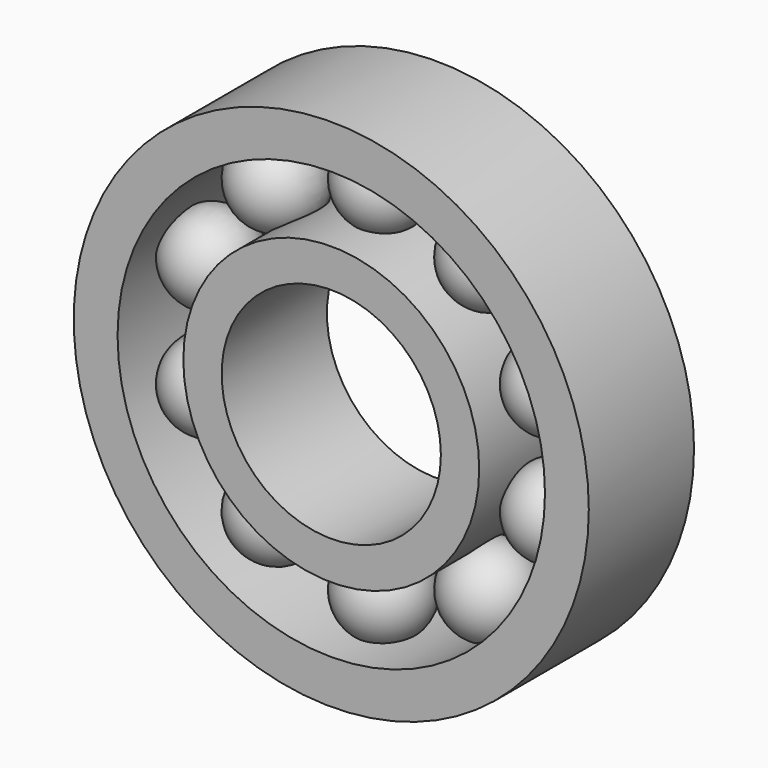
from build123d import *

# Parameters (mm, degrees)
F0_R     = 13.5
F0_R_2   = 10
F1_DEPTH = 12
F2_R     = 23.5
F2_R_2   = 19.5
F3_DEPTH = 12
F8_COUNT = 10


with BuildPart() as f1:
    # F0 (on Front) → F1 (new body)
    with BuildSketch(Plane.XZ):
        Circle(F0_R)
        Circle(F0_R_2, mode=Mode.SUBTRACT)
    extrude(amount=F1_DEPTH)


with BuildPart() as f3:
    # F2 (on Front) → F3 (new body)
    with BuildSketch(Plane.XZ):
        Circle(F2_R)
        Circle(F2_R_2, mode=Mode.SUBTRACT)
    extrude(amount=F3_DEPTH)


with BuildPart() as f6:
    # F5 (on offset) → F6 (revolve)
    with BuildSketch(Plane.XZ.offset(6)):
        with BuildLine():
            Line((0, 20.5), (0, 12.5))
            ThreePointArc((0, 12.5), (4, 16.5), (0, 20.5))
        make_face()
    revolve(axis=Axis((0, -6, 16.5), (0, 0, -1)))


with BuildPart() as f8_1:
    # F8: instance of F6
    add(f6.part.rotate(Axis((0, -9.784946, 0), (0, -1, 0)), 1 * 360 / F8_COUNT))


with BuildPart() as f8_2:
    # F8: instance of F6
    add(f6.part.rotate(Axis((0, -9.784946, 0), (0, -1, 0)), 2 * 360 / F8_COUNT))


with BuildPart() as f8_3:
    # F8: instance of F6
    add(f6.part.rotate(Axis((0, -9.784946, 0), (0, -1, 0)), 3 * 360 / F8_COUNT))


with BuildPart() as f8_4:
    # F8: instance of F6
    add(f6.part.rotate(Axis((0, -9.784946, 0), (0, -1, 0)), 4 * 360 / F8_COUNT))


with BuildPart() as f8_5:
    # F8: instance of F6
    add(f6.part.rotate(Axis((0, -9.784946, 0), (0, -1, 0)), 5 * 360 / F8_COUNT))


with BuildPart() as f8_6:
    # F8: instance of F6
    add(f6.part.rotate(Axis((0, -9.784946, 0), (0, -1, 0)), 6 * 360 / F8_COUNT))


with BuildPart() as f8_7:
    # F8: instance of F6
    add(f6.part.rotate(Axis((0, -9.784946, 0), (0, -1, 0)), 7 * 360 / F8_COUNT))


with BuildPart() as f8_8:
    # F8: instance of F6
    add(f6.part.rotate(Axis((0, -9.784946, 0), (0, -1, 0)), 8 * 360 / F8_COUNT))


with BuildPart() as f8_9:
    # F8: instance of F6
    add(f6.part.rotate(Axis((0, -9.784946, 0), (0, -1, 0)), 9 * 360 / F8_COUNT))


solid = Compound([f1.part, f3.part, f6.part, f8_1.part, f8_2.part, f8_3.part, f8_4.part, f8_5.part, f8_6.part, f8_7.part, f8_8.part, f8_9.part])
